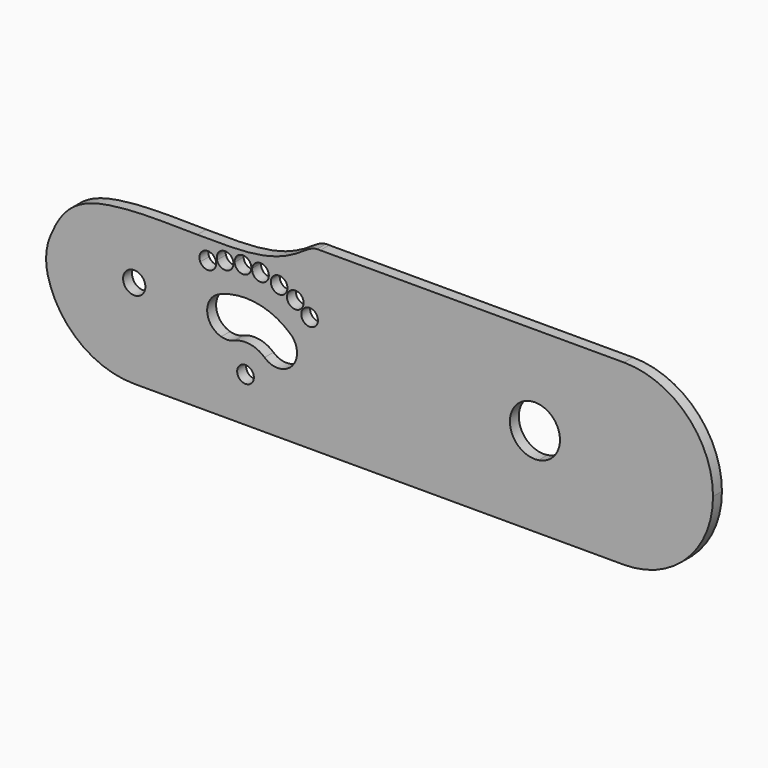
from build123d import *

# Parameters (mm, degrees)
F0_R     = 6.35
F0_R_2   = 4.7625
F1_DEPTH = 6.35
F2_R     = 32.0379747342
F3_ANGLE = 180


with BuildPart() as f1:
    # F0 (on Front) → F1 (new body)
    with BuildSketch(Plane.XZ):
        with BuildLine():
            add(Edge.make_bspline(
                [(-44.9317906939, -75.2959670142), (-42.504350489, -76.9309330496), (-40.0815580843, -78.574281615), (-37.0058182453, -78.848974732)],
                knots=[0, 0, 0, 0, 0.304878312, 0.304878312, 0.304878312, 0.304878312], degree=3))
            Line((-37.0058182453, -78.848974732), (-35.1899303496, -78.848974732))
            Line((-35.1899303496, -78.848974732), (138.0456507325, -78.848974732))
            ThreePointArc((138.0456507325, -78.848974732), (107.5329699783, -68.6644436224), (89.25483042, -42.1944988733))
            ThreePointArc((89.25483042, -42.1944988733), (72.9581507325, -28.048974732), (89.25483042, -13.9034505906))
            ThreePointArc((89.25483042, -13.9034505906), (107.5329699783, 12.5664941585), (138.0456507325, 22.751025268))
            Line((138.0456507325, 22.751025268), (-29.5108688384, 22.751025268))
            ThreePointArc((-29.5108688384, 22.751025268), (-23.7287326375, -9.9063657522), (-37.9096431739, -39.8870272468))
            ThreePointArc((-37.9096431739, -39.8870272468), (-36.8982172715, -41.4219866867), (-36.5434579184, -43.2256575657))
            ThreePointArc((-36.5434579184, -43.2256575657), (-39.6962005674, -47.7078542952), (-44.9802400795, -46.2556834486))
            ThreePointArc((-44.9802400795, -46.2556834486), (-45.2388732076, -46.4494635579), (-45.4986485664, -46.6417097247))
            ThreePointArc((-45.4986485664, -46.6417097247), (-44.8982077868, -47.9076096174), (-44.6921152233, -49.2934514277))
            ThreePointArc((-44.6921152233, -49.2934514277), (-48.2687720926, -53.9059542537), (-53.62657499, -51.5904403165))
            ThreePointArc((-53.62657499, -51.5904403165), (-53.9605685551, -51.7543648971), (-54.2956711641, -51.9160102225))
            ThreePointArc((-54.2956711641, -51.9160102225), (-54.0112987886, -52.8294235617), (-53.9152156835, -53.781242669))
            ThreePointArc((-53.9152156835, -53.781242669), (-57.9302793656, -58.484724911), (-63.2056073689, -55.2575905738))
            ThreePointArc((-63.2056073689, -55.2575905738), (-63.9341966135, -55.4550487206), (-64.6654456429, -55.6424169789))
            ThreePointArc((-64.6654456429, -55.6424169789), (-64.5940899046, -56.1138214868), (-64.5702249334, -56.589998255))
            ThreePointArc((-64.5702249334, -56.589998255), (-69.063627601, -61.3448897233), (-74.0648151174, -57.1273331041))
            ThreePointArc((-74.0648151174, -57.1273331041), (-74.3067807591, -57.1436245398), (-74.5488163621, -57.1588412904))
            ThreePointArc((-74.5488163621, -57.1588412904), (-74.5483033729, -57.1991961718), (-74.5481323724, -57.2395539515))
            ThreePointArc((-74.5481323724, -57.2395539515), (-79.4779726733, -61.9991131195), (-84.0613726764, -56.9050800143))
            ThreePointArc((-84.0613726764, -56.9050800143), (-84.4367274692, -56.8608221199), (-84.811766966, -56.8139674761))
            ThreePointArc((-84.811766966, -56.8139674761), (-90.5205103625, -60.6546823767), (-94.1086444598, -54.7838957332))
            ThreePointArc((-94.1086444598, -54.7838957332), (-94.5178427862, -54.6545521612), (-94.926012036, -54.5219969142))
            ThreePointArc((-94.926012036, -54.5219969142), (-96.9364048452, -56.9248041814), (-100.0044999501, -57.5588029495))
            ThreePointArc((-100.0044999501, -57.5588029495), (-102.555846588, -60.8409888487), (-105.3670203015, -63.9035721205))
            add(Edge.make_bspline(
                [(-105.3670203015, -63.9035721205), (-93.0623740032, -63.7395817927), (-65.1691332268, -63.6755764129), (-51.7450297958, -70.7164798851), (-44.9317906939, -75.2959670142)],
                knots=[0.5750167778, 0.5750167778, 0.5750167778, 0.5750167778, 0.7300492168, 0.9453128196, 0.9453128196, 0.9453128196, 0.9453128196], degree=3))
        make_face()
        with BuildLine():
            Line((-35.1899303496, -78.848974732), (-37.0058182453, -78.848974732))
            add(Edge.make_bspline(
                [(-37.0058182453, -78.848974732), (-36.4252596683, -78.9008241905), (-35.8214378024, -78.9039110297), (-35.1899303496, -78.848974732)],
                knots=[0.304878312, 0.304878312, 0.304878312, 0.304878312, 0.3624253505, 0.3624253505, 0.3624253505, 0.3624253505], degree=3))
        make_face()
        with BuildLine():
            ThreePointArc((89.25483042, -42.1944988733), (107.5329699783, -68.6644436224), (138.0456507325, -78.848974732))
            ThreePointArc((138.0456507325, -78.848974732), (173.9666752168, -63.9699992163), (188.8456507325, -28.048974732))
            ThreePointArc((188.8456507325, -28.048974732), (173.9666752168, 7.8720497523), (138.0456507325, 22.751025268))
            ThreePointArc((138.0456507325, 22.751025268), (107.5329699783, 12.5664941585), (89.25483042, -13.9034505906))
            ThreePointArc((89.25483042, -13.9034505906), (98.0354331918, -18.6834394706), (101.5331507325, -28.048974732))
            ThreePointArc((101.5331507325, -28.048974732), (98.0354331918, -37.4145099934), (89.25483042, -42.1944988733))
        make_face()
        with BuildLine():
            add(Edge.make_bspline(
                [(-192.1543492675, -28.048974732), (-187.686217537, -40.4827740106), (-178.5952669037, -65.7808319564), (-128.5743222399, -64.2128677281), (-105.3670203015, -63.9035721205)],
                knots=[0, 0, 0, 0, 0.2826162867, 0.5750167778, 0.5750167778, 0.5750167778, 0.5750167778], degree=3))
            ThreePointArc((-105.3670203015, -63.9035721205), (-102.555846588, -60.8409888487), (-100.0044999501, -57.5588029495))
            ThreePointArc((-100.0044999501, -57.5588029495), (-103.5707491501, -55.1009846293), (-103.6714716912, -50.7709893382))
            ThreePointArc((-103.6714716912, -50.7709893382), (-99.8239881538, -48.0955305832), (-95.5471956554, -50.0113215546))
            ThreePointArc((-95.5471956554, -50.0113215546), (-93.2496774257, -44.3762692721), (-91.6424653425, -38.5069189195))
            ThreePointArc((-91.6424653425, -38.5069189195), (-92.322764275, -38.2378672888), (-92.9978166414, -37.9559103416))
            ThreePointArc((-92.9978166414, -37.9559103416), (-99.7102448029, -27.0812609993), (-91.7522812468, -17.0819857164))
            ThreePointArc((-91.7522812468, -17.0819857164), (-104.2898917661, 6.6910020977), (-127.2022100568, 20.7399272413))
            ThreePointArc((-127.2022100568, 20.7399272413), (-134.2071897004, 22.2457378144), (-141.3543492675, 22.751025268))
            ThreePointArc((-141.3543492675, 22.751025268), (-177.2753737518, 7.8720497523), (-192.1543492675, -28.048974732))
        make_face()
        with Locations((-141.3543492675, -28.048974732)):
            Circle(F0_R, mode=Mode.SUBTRACT)
        with BuildLine():
            ThreePointArc((-94.6181004106, -52.8373460118), (-94.6957106902, -53.6936254977), (-94.926012036, -54.5219969142))
            ThreePointArc((-94.926012036, -54.5219969142), (-94.5178427862, -54.6545521612), (-94.1086444598, -54.7838957332))
            ThreePointArc((-94.1086444598, -54.7838957332), (-88.8904205988, -51.2790749892), (-84.7420081356, -56.0018181271))
            ThreePointArc((-84.7420081356, -56.0018181271), (-84.7594798917, -56.4093880167), (-84.811766966, -56.8139674761))
            ThreePointArc((-84.811766966, -56.8139674761), (-84.4367274692, -56.8608221199), (-84.0613726764, -56.9050800143))
            ThreePointArc((-84.0613726764, -56.9050800143), (-79.1836309389, -52.4787476242), (-74.5488163621, -57.1588412904))
            ThreePointArc((-74.5488163621, -57.1588412904), (-74.3067807591, -57.1436245398), (-74.0648151174, -57.1273331041))
            ThreePointArc((-74.0648151174, -57.1273331041), (-70.0758898462, -51.8858392268), (-64.6654456429, -55.6424169789))
            ThreePointArc((-64.6654456429, -55.6424169789), (-63.9341966135, -55.4550487206), (-63.2056073689, -55.2575905738))
            ThreePointArc((-63.2056073689, -55.2575905738), (-60.3500965193, -49.3220332559), (-54.2956711641, -51.9160102225))
            ThreePointArc((-54.2956711641, -51.9160102225), (-53.9605685551, -51.7543648971), (-53.62657499, -51.5904403165))
            ThreePointArc((-53.62657499, -51.5904403165), (-51.9313362155, -45.2256191577), (-45.4986485664, -46.6417097247))
            ThreePointArc((-45.4986485664, -46.6417097247), (-45.2388732076, -46.4494635579), (-44.9802400795, -46.2556834486))
            ThreePointArc((-44.9802400795, -46.2556834486), (-44.493317629, -39.6869933651), (-37.9096431739, -39.8870272468))
            ThreePointArc((-37.9096431739, -39.8870272468), (-23.7287326375, -9.9063657522), (-29.5108688384, 22.751025268))
            Line((-29.5108688384, 22.751025268), (-126.1978296966, 22.751025268))
            ThreePointArc((-126.1978296966, 22.751025268), (-126.7103690202, 21.7506448125), (-127.2022100568, 20.7399272413))
            ThreePointArc((-127.2022100568, 20.7399272413), (-104.2898917661, 6.6910020977), (-91.7522812468, -17.0819857164))
            ThreePointArc((-91.7522812468, -17.0819857164), (-87.9555754664, -16.6503904081), (-84.2371330367, -17.5304104022))
            ThreePointArc((-84.2371330367, -17.5304104022), (-75.2103646617, -18.6241555339), (-67.0173262512, -14.6804330141))
            ThreePointArc((-67.0173262512, -14.6804330141), (-55.0611893817, -12.7851430462), (-48.4676535929, -22.9373161489))
            ThreePointArc((-48.4676535929, -22.9373161489), (-49.4279804902, -27.4562803601), (-52.1429809347, -31.1941992836))
            ThreePointArc((-52.1429809347, -31.1941992836), (-70.8607841381, -40.4245535235), (-91.6424653425, -38.5069189195))
            ThreePointArc((-91.6424653425, -38.5069189195), (-93.2496774257, -44.3762692721), (-95.5471956554, -50.0113215546))
            ThreePointArc((-95.5471956554, -50.0113215546), (-94.8563327131, -51.3499294422), (-94.6181004106, -52.8373460118))
        make_face()
        with Locations((-77.8543492675, -2.648974732)):
            Circle(F0_R_2, mode=Mode.SUBTRACT)
        with BuildLine():
            Line((-126.1978296966, 22.751025268), (-141.3543492675, 22.751025268))
            ThreePointArc((-141.3543492675, 22.751025268), (-134.2071897004, 22.2457378144), (-127.2022100568, 20.7399272413))
            ThreePointArc((-127.2022100568, 20.7399272413), (-126.7103690202, 21.7506448125), (-126.1978296966, 22.751025268))
        make_face()
    extrude(amount=F1_DEPTH)

    # F2
    f2_edges = [f1.edges().sort_by_distance(p)[0] for p in [
        (-192.154349, -3.175, -28.048975),
    ]]
    fillet(f2_edges, radius=F2_R)


with BuildPart() as f1_1:
    # F3: moved
    add(f1.part.rotate(Axis((-1.6543492675, -6.35, 22.751025268), (1, 0, 0)), F3_ANGLE))


solid = f1_1.part
